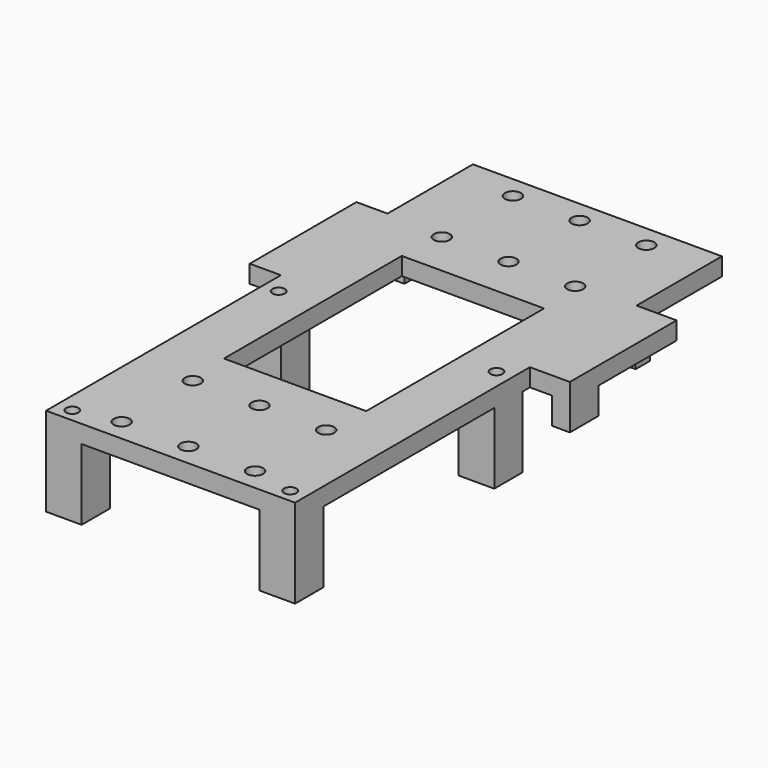
from build123d import *

# Parameters (mm, degrees)
SKETCH_W        = 56
SKETCH_H        = 120
PAD_DEPTH       = 4
SKETCH002_W     = 8
SKETCH002_H     = 8
PAD001_DEPTH    = 16
SKETCH003_R     = 1.4
POCKET_DEPTH    = 20
SKETCH004_R     = 1.8
POCKET001_DEPTH = 5
SKETCH006_W     = 7
SKETCH006_H     = 30
SKETCH006_W_2   = 9
PAD003_DEPTH    = 4
SKETCH007_W     = 4
SKETCH007_H     = 8
SKETCH007_W_2   = 8
SKETCH007_H_2   = 4
PAD004_DEPTH    = 6
SKETCH008_W     = 32
SKETCH008_H     = 50
POCKET002_DEPTH = 5


with BuildPart() as part:
    # Sketch → Pad (new body)
    with BuildSketch(Plane.XY):
        Rectangle(SKETCH_W, SKETCH_H)
    extrude(amount=PAD_DEPTH)

    # Sketch002 → Pad001 (join)
    with BuildSketch(Plane(origin=(0, 0, 0), x_dir=(1, 0, 0), z_dir=(0, 0, -1))):
        with Locations((24, 0)):
            Rectangle(SKETCH002_W, SKETCH002_H)
        with Locations((24, 56)):
            Rectangle(SKETCH002_W, SKETCH002_H)
        with Locations((-24, 56)):
            Rectangle(SKETCH002_W, SKETCH002_H)
        with Locations((-24, 0)):
            Rectangle(SKETCH002_W, SKETCH002_H)
    extrude(amount=PAD001_DEPTH)

    # Sketch003 (on Face26 of Pad001) → Pocket (cut)
    with BuildSketch(Plane(origin=(0, 0, -16), x_dir=(1, 0, 0), z_dir=(0, 0, -1))):
        with Locations((24.5, 57)):
            Circle(SKETCH003_R)
        with Locations((24.5, -1)):
            Circle(SKETCH003_R)
        with Locations((-24.5, -1)):
            Circle(SKETCH003_R)
        with Locations((-24.5, 57)):
            Circle(SKETCH003_R)
    extrude(amount=-POCKET_DEPTH, mode=Mode.SUBTRACT)

    # Sketch004 (on Face4 of Pocket) → Pocket001 (cut)
    with BuildSketch(Plane(origin=(0, 0, 0), x_dir=(1, 0, 0), z_dir=(0, 0, -1))):
        with Locations((0, -35)):
            Circle(SKETCH004_R)
        with Locations((0, -55)):
            Circle(SKETCH004_R)
        with Locations((15, -35)):
            Circle(SKETCH004_R)
        with Locations((15, -55)):
            Circle(SKETCH004_R)
        with Locations((-15, -35)):
            Circle(SKETCH004_R)
        with Locations((-15, -55)):
            Circle(SKETCH004_R)
        with Locations((15, 55)):
            Circle(SKETCH004_R)
        with Locations((0, 55)):
            Circle(SKETCH004_R)
        with Locations((-15, 55)):
            Circle(SKETCH004_R)
        with Locations((-15, 35)):
            Circle(SKETCH004_R)
        with Locations((0, 35)):
            Circle(SKETCH004_R)
        with Locations((15, 35)):
            Circle(SKETCH004_R)
    extrude(amount=-POCKET001_DEPTH, mode=Mode.SUBTRACT)

    # Sketch006 → Pad003 (join)
    with BuildSketch(Plane.XY):
        with Locations((-31.5, 21)):
            Rectangle(SKETCH006_W, SKETCH006_H)
        with Locations((32.5, 21)):
            Rectangle(SKETCH006_W_2, SKETCH006_H)
    extrude(amount=PAD003_DEPTH)

    # Sketch007 (on Face10 of Pad003) → Pad004 (join)
    with BuildSketch(Plane(origin=(0, 0, 0), x_dir=(1, 0, 0), z_dir=(0, 0, -1))):
        with Locations((35, -10)):
            Rectangle(SKETCH007_W, SKETCH007_H)
        with Locations((-33, -26)):
            Rectangle(SKETCH007_W, SKETCH007_H)
        with Locations((27, -34)):
            Rectangle(SKETCH007_W_2, SKETCH007_H_2)
        with Locations((-25, -34)):
            Rectangle(SKETCH007_W_2, SKETCH007_H_2)
    extrude(amount=PAD004_DEPTH)

    # Sketch008 (on Face4 of Pad004) → Pocket002 (cut)
    with BuildSketch(Plane(origin=(0, 0, 0), x_dir=(1, 0, 0), z_dir=(0, 0, -1))):
        Rectangle(SKETCH008_W, SKETCH008_H)
    extrude(amount=-POCKET002_DEPTH, mode=Mode.SUBTRACT)


solid = part.part
